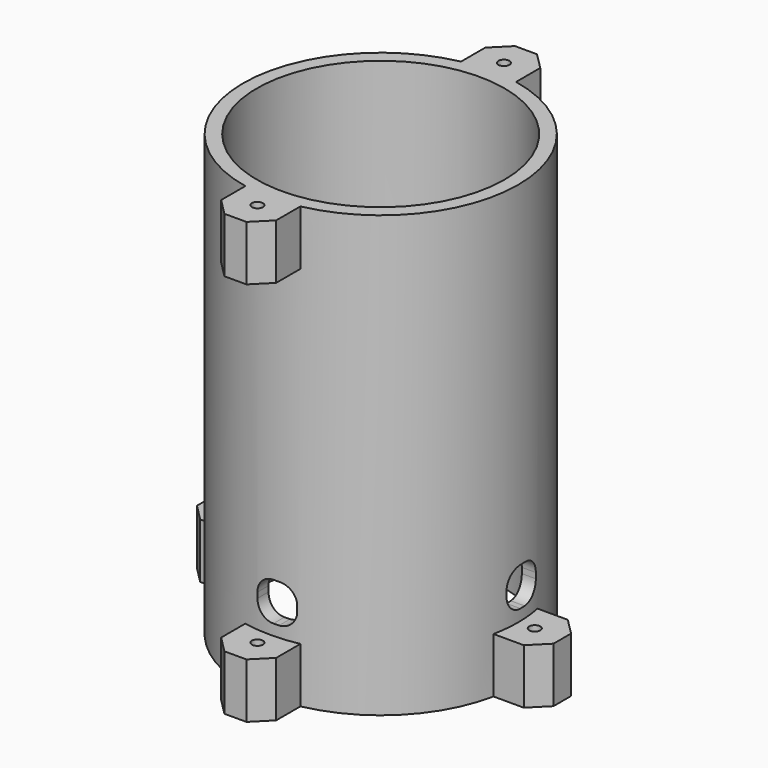
from build123d import *

# Parameters (mm, degrees)
CYLINDER019_R              = 1
CYLINDER019_DEPTH          = 10
BOX007_W                   = 10
BOX007_H                   = 10
BOX007_DEPTH               = 10
CHAMFER004_SIZE            = 3
CHAMFER004_PLACEMENT_ANGLE = -90
CYLINDER015_R              = 1
CYLINDER015_DEPTH          = 10
BOX002_W                   = 10
BOX002_H                   = 10
BOX002_DEPTH               = 10
CHAMFER_SIZE               = 3
CYLINDER017_R              = 1
CYLINDER017_DEPTH          = 10
BOX005_W                   = 10
BOX005_H                   = 10
BOX005_DEPTH               = 10
CHAMFER002_SIZE            = 3
CYLINDER018_R              = 1
CYLINDER018_DEPTH          = 10
BOX006_W                   = 10
BOX006_H                   = 10
BOX006_DEPTH               = 10
CHAMFER003_SIZE            = 3
CHAMFER003_PLACEMENT_ANGLE = 90
CYLINDER020_R              = 1
CYLINDER020_DEPTH          = 10
BOX008_W                   = 10
BOX008_H                   = 10
BOX008_DEPTH               = 10
CHAMFER005_SIZE            = 3
CHAMFER005_PLACEMENT_ANGLE = 180
CYLINDER_R                 = 1
CYLINDER_DEPTH             = 10
BOX004_W                   = 10
BOX004_H                   = 10
BOX004_DEPTH               = 10
CHAMFER001_SIZE            = 3
CHAMFER001_PLACEMENT_ANGLE = 180
BOX001_W                   = 7
BOX001_H                   = 120
BOX001_DEPTH               = 7
BOX001_PLACEMENT_ANGLE     = 90
FILLET_R                   = 3
BOX_W                      = 7
BOX_H                      = 120
BOX_DEPTH                  = 7
FILLET001_R                = 3
CYLINDER009_R              = 22.5
CYLINDER009_DEPTH          = 80
CYLINDER008_R              = 25
CYLINDER008_DEPTH          = 80


with BuildPart() as cylindre020:
    # Cylinder019 → Cylinder019 (new body)
    with BuildSketch(Plane(origin=(5, 5, 0), x_dir=(1, 0, 0), z_dir=(0, 0, 1))):
        Circle(CYLINDER019_R)
    extrude(amount=CYLINDER019_DEPTH)


with BuildPart() as chamfer004:
    # Box007 → Box007 (new body)
    with BuildSketch(Plane.XY):
        with Locations((5, 5)):
            Rectangle(BOX007_W, BOX007_H)
    extrude(amount=BOX007_DEPTH)

    # Cut018: cut Cylindre020
    add(cylindre020.part, mode=Mode.SUBTRACT)


with BuildPart() as chamfer004_1:
    # Cut018 placement: moved
    add(chamfer004.part.moved(Location((-5, 48, 70))))

    # Chamfer004
    chamfer004_edges = [chamfer004_1.edges().sort_by_distance(p)[0] for p in [
        (-5, 58, 75),
        (5, 58, 75),
    ]]
    chamfer(chamfer004_edges, length=CHAMFER004_SIZE)


with BuildPart() as chamfer004_2:
    # Chamfer004 placement: moved
    add(chamfer004_1.part.moved(Location((-25, 0, -70))).rotate(Axis((-25, 0, -70), (0, 0, 1)), CHAMFER004_PLACEMENT_ANGLE))


with BuildPart() as cylindre:
    # Cylinder015 → Cylinder015 (new body)
    with BuildSketch(Plane(origin=(5, 5, 0), x_dir=(1, 0, 0), z_dir=(0, 0, 1))):
        Circle(CYLINDER015_R)
    extrude(amount=CYLINDER015_DEPTH)


with BuildPart() as chamfer_body:
    # Box002 → Box002 (new body)
    with BuildSketch(Plane.XY):
        with Locations((5, 5)):
            Rectangle(BOX002_W, BOX002_H)
    extrude(amount=BOX002_DEPTH)

    # Cut014: cut Cylindre
    add(cylindre.part, mode=Mode.SUBTRACT)


with BuildPart() as chamfer_body_1:
    # Cut014 placement: moved
    add(chamfer_body.part.moved(Location((-5, 48, 70))))

    # Chamfer
    chamfer_edges = [chamfer_body_1.edges().sort_by_distance(p)[0] for p in [
        (-5, 58, 75),
        (5, 58, 75),
    ]]
    chamfer(chamfer_edges, length=CHAMFER_SIZE)


with BuildPart() as chamfer_body_2:
    # Chamfer placement: moved
    add(chamfer_body_1.part.moved(Location((0, -25, 0))))


with BuildPart() as cylindre018:
    # Cylinder017 → Cylinder017 (new body)
    with BuildSketch(Plane(origin=(5, 5, 0), x_dir=(1, 0, 0), z_dir=(0, 0, 1))):
        Circle(CYLINDER017_R)
    extrude(amount=CYLINDER017_DEPTH)


with BuildPart() as chamfer002:
    # Box005 → Box005 (new body)
    with BuildSketch(Plane.XY):
        with Locations((5, 5)):
            Rectangle(BOX005_W, BOX005_H)
    extrude(amount=BOX005_DEPTH)

    # Cut016: cut Cylindre018
    add(cylindre018.part, mode=Mode.SUBTRACT)


with BuildPart() as chamfer002_1:
    # Cut016 placement: moved
    add(chamfer002.part.moved(Location((-5, 48, 70))))

    # Chamfer002
    chamfer002_edges = [chamfer002_1.edges().sort_by_distance(p)[0] for p in [
        (-5, 58, 75),
        (5, 58, 75),
    ]]
    chamfer(chamfer002_edges, length=CHAMFER002_SIZE)


with BuildPart() as chamfer002_2:
    # Chamfer002 placement: moved
    add(chamfer002_1.part.moved(Location((0, -25, -70))))


with BuildPart() as cylindre019:
    # Cylinder018 → Cylinder018 (new body)
    with BuildSketch(Plane(origin=(5, 5, 0), x_dir=(1, 0, 0), z_dir=(0, 0, 1))):
        Circle(CYLINDER018_R)
    extrude(amount=CYLINDER018_DEPTH)


with BuildPart() as chamfer003:
    # Box006 → Box006 (new body)
    with BuildSketch(Plane.XY):
        with Locations((5, 5)):
            Rectangle(BOX006_W, BOX006_H)
    extrude(amount=BOX006_DEPTH)

    # Cut017: cut Cylindre019
    add(cylindre019.part, mode=Mode.SUBTRACT)


with BuildPart() as chamfer003_1:
    # Cut017 placement: moved
    add(chamfer003.part.moved(Location((-5, 48, 70))))

    # Chamfer003
    chamfer003_edges = [chamfer003_1.edges().sort_by_distance(p)[0] for p in [
        (-5, 58, 75),
        (5, 58, 75),
    ]]
    chamfer(chamfer003_edges, length=CHAMFER003_SIZE)


with BuildPart() as chamfer003_2:
    # Chamfer003 placement: moved
    add(chamfer003_1.part.moved(Location((25, 1.5, -70))).rotate(Axis((25, 1.5, -70), (0, 0, 1)), CHAMFER003_PLACEMENT_ANGLE))


with BuildPart() as cylindre021:
    # Cylinder020 → Cylinder020 (new body)
    with BuildSketch(Plane(origin=(5, 5, 0), x_dir=(1, 0, 0), z_dir=(0, 0, 1))):
        Circle(CYLINDER020_R)
    extrude(amount=CYLINDER020_DEPTH)


with BuildPart() as chamfer005:
    # Box008 → Box008 (new body)
    with BuildSketch(Plane.XY):
        with Locations((5, 5)):
            Rectangle(BOX008_W, BOX008_H)
    extrude(amount=BOX008_DEPTH)

    # Cut019: cut Cylindre021
    add(cylindre021.part, mode=Mode.SUBTRACT)


with BuildPart() as chamfer005_1:
    # Cut019 placement: moved
    add(chamfer005.part.moved(Location((-5, 48, 70))))

    # Chamfer005
    chamfer005_edges = [chamfer005_1.edges().sort_by_distance(p)[0] for p in [
        (-5, 58, 75),
        (5, 58, 75),
    ]]
    chamfer(chamfer005_edges, length=CHAMFER005_SIZE)


with BuildPart() as chamfer005_2:
    # Chamfer005 placement: moved
    add(chamfer005_1.part.moved(Location((0, 25, -70))).rotate(Axis((0, 25, -70), (0, 0, 1)), CHAMFER005_PLACEMENT_ANGLE))


with BuildPart() as cylindre017:
    # Cylinder → Cylinder (new body)
    with BuildSketch(Plane(origin=(5, 5, 0), x_dir=(1, 0, 0), z_dir=(0, 0, 1))):
        Circle(CYLINDER_R)
    extrude(amount=CYLINDER_DEPTH)


with BuildPart() as obj1:
    # Box004 → Box004 (new body)
    with BuildSketch(Plane.XY):
        with Locations((5, 5)):
            Rectangle(BOX004_W, BOX004_H)
    extrude(amount=BOX004_DEPTH)

    # Cut015: cut Cylindre017
    add(cylindre017.part, mode=Mode.SUBTRACT)


with BuildPart() as obj1_1:
    # Cut015 placement: moved
    add(obj1.part.moved(Location((-5, 48, 70))))

    # Chamfer001
    chamfer001_edges = [obj1_1.edges().sort_by_distance(p)[0] for p in [
        (-5, 58, 75),
        (5, 58, 75),
    ]]
    chamfer(chamfer001_edges, length=CHAMFER001_SIZE)


with BuildPart() as obj1_2:
    # Chamfer001 placement: moved
    add(obj1_1.part.moved(Location((0, 25, 0))).rotate(Axis((0, 25, 0), (0, 0, 1)), CHAMFER001_PLACEMENT_ANGLE))

    # Fusion: union Chamfer004, Chamfer body, Chamfer002, Chamfer003, Chamfer005
    add(chamfer004_2.part)
    add(chamfer_body_2.part)
    add(chamfer002_2.part)
    add(chamfer003_2.part)
    add(chamfer005_2.part)


with BuildPart() as fillet_body:
    # Box001 → Box001 (new body)
    with BuildSketch(Plane.XY):
        with Locations((3.5, 60)):
            Rectangle(BOX001_W, BOX001_H)
    extrude(amount=BOX001_DEPTH)


with BuildPart() as fillet_body_1:
    # Box001 placement: moved
    add(fillet_body.part.moved(Location((60, -2.5, 12))).rotate(Axis((60, -2.5, 12), (0, 0, 1)), BOX001_PLACEMENT_ANGLE))

    # Fillet
    fillet_edges = [fillet_body_1.edges().sort_by_distance(p)[0] for p in [
        (0, -2.5, 19),
        (0, -2.5, 12),
        (0, 4.5, 19),
        (0, 4.5, 12),
    ]]
    fillet(fillet_edges, radius=FILLET_R)


with BuildPart() as fillet001:
    # Box → Box (new body)
    with BuildSketch(Plane(origin=(-2.5, -60, 12), x_dir=(1, 0, 0), z_dir=(0, 0, 1))):
        with Locations((3.5, 60)):
            Rectangle(BOX_W, BOX_H)
    extrude(amount=BOX_DEPTH)

    # Fillet001
    fillet001_edges = [fillet001.edges().sort_by_distance(p)[0] for p in [
        (-2.5, 0, 19),
        (-2.5, 0, 12),
        (4.5, 0, 19),
        (4.5, 0, 12),
    ]]
    fillet(fillet001_edges, radius=FILLET001_R)


with BuildPart() as cylindre009:
    # Cylinder009 → Cylinder009 (new body)
    with BuildSketch(Plane.XY):
        Circle(CYLINDER009_R)
    extrude(amount=CYLINDER009_DEPTH)


with BuildPart() as obj2:
    # Cylinder008 → Cylinder008 (new body)
    with BuildSketch(Plane.XY):
        Circle(CYLINDER008_R)
    extrude(amount=CYLINDER008_DEPTH)

    # Cut008: cut Cylindre009
    add(cylindre009.part, mode=Mode.SUBTRACT)

    # Cut: cut Fillet001
    add(fillet001.part, mode=Mode.SUBTRACT)

    # Cut009: cut Fillet body
    add(fillet_body_1.part, mode=Mode.SUBTRACT)

    # Fusion001: union obj1
    add(obj1_2.part)


with BuildPart() as obj2_1:
    # Fusion001 placement: moved
    add(obj2.part.moved(Location((0, 0, 6))))


solid = obj2_1.part
